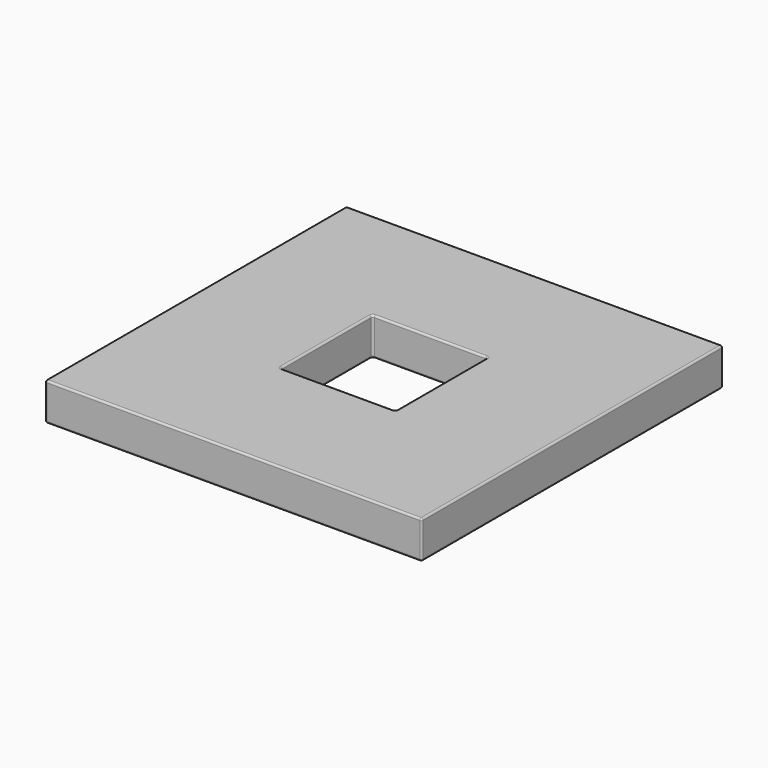
from build123d import *

# Parameters (mm, degrees)
F0_W     = 1000
F0_H     = 1000
F0_W_2   = 305
F0_H_2   = 305
F1_DEPTH = 100
F2_R     = 5


with BuildPart() as f1:
    # F0 (on Top) → F1 (new body)
    with BuildSketch(Plane.XY):
        Rectangle(F0_W, F0_H)
        Rectangle(F0_W_2, F0_H_2, mode=Mode.SUBTRACT)
    extrude(amount=F1_DEPTH)

    # F2
    f2_edges = [f1.edges().sort_by_distance(p)[0] for p in [
        (500, 0, 100),
        (0, 500, 100),
        (-500, 0, 100),
        (0, -500, 100),
        (0, 152.5, 100),
        (152.5, 0, 100),
        (0, -152.5, 100),
        (-152.5, 0, 100),
        (500, 0, 0),
        (0, 500, 0),
        (-500, 0, 0),
        (0, -500, 0),
        (0, 152.5, 0),
        (152.5, 0, 0),
        (0, -152.5, 0),
        (-152.5, 0, 0),
        (-152.5, 152.5, 50),
        (152.5, 152.5, 50),
        (152.5, -152.5, 50),
        (-152.5, -152.5, 50),
        (500, 500, 50),
        (-500, 500, 50),
        (-500, -500, 50),
        (500, -500, 50),
    ]]
    fillet(f2_edges, radius=F2_R)


solid = f1.part
